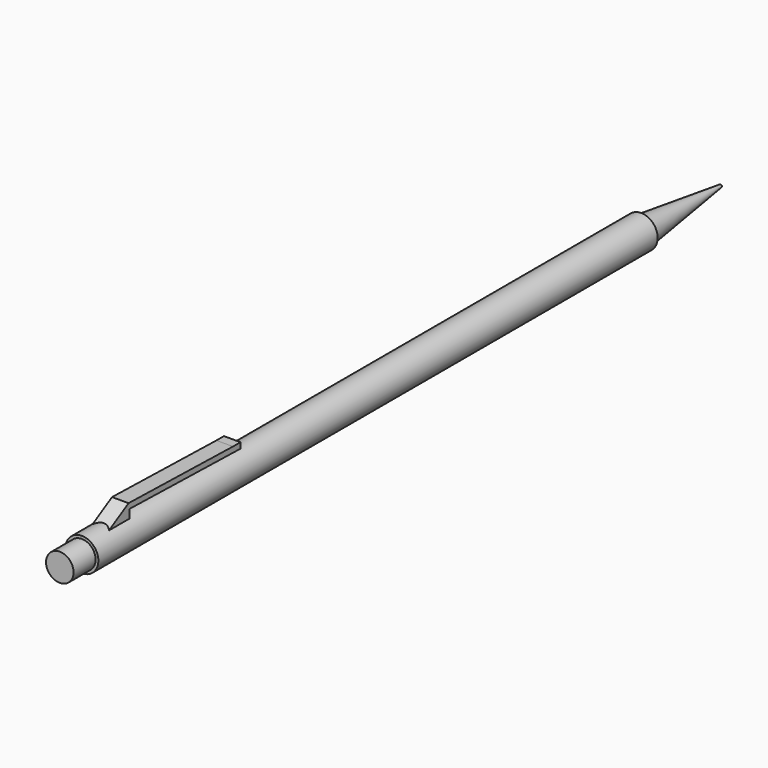
from build123d import *

# Parameters (mm, degrees)
F0_R      = 3
F1_DEPTH  = 127
F5_DEPTH  = 18
F2_R      = 2.5
F9_DEPTH  = 5
F12_DEPTH = 3
F14_DEPTH = 3


with BuildPart() as f1:
    # F0 (on Front) → F1 (new body)
    with BuildSketch(Plane.XZ):
        Circle(F0_R)
    extrude(amount=-F1_DEPTH)

    # F10: sweep along a path in F6
    with BuildLine(Plane.YZ) as f10_path:
        Line((5.9960522478, 2.5535523714), (8.9578591287, 4.2635523714))
        Line((8.9578591287, 4.2635523714), (33.9504102688, 3.6533167544))
    # F8 (on offset) → F10 (sweep)
    with BuildSketch(Plane.XY.offset(3)):
        Polygon((1.5, 6.9960522478), (0, 6.9960522478), (-1.5, 6.9960522478), (-1.5, 4.9960522478), (1.5, 4.9960522478), align=None)
    sweep(path=f10_path.line, transition=Transition.RIGHT)

    # F11 (on face) → F12 (join)
    with BuildSketch(Plane(origin=(-1.5, 0, 0), x_dir=(0, -1, 0), z_dir=(-1, 0, 0))):
        Polygon((-6.2998998251, 2.5980762114), (-8.9869465357, 4.1494433531), (-8.94906727, 2.5980762114), align=None)
    extrude(amount=-F12_DEPTH)

    # F13 (on face) → F14 (join)
    with BuildSketch(Plane.YZ.offset(1.5)):
        Polygon((34.1439385505, 4.577173042), (32.4368132398, 4.577173042), (34.1439385505, 3.5351926326), align=None)
    extrude(amount=-F14_DEPTH)


with BuildPart() as f4:
    # F3 (on Top) → F4 (revolve)
    with BuildSketch(Plane.XY):
        Polygon((-2.489665756, 127.0154416561), (0.010334244, 127.0154416561), (0.010334244, 145.0154416561), (-0.239665756, 145.0154416561), align=None)
    revolve(axis=Axis((0.010334244, 136.0154416561, 0), (0, 1, 0)))

    # F5 (cut): a face of the model
    f5_faces = [f4.faces().sort_by_distance(p)[0] for p in [
        (0.010334244, 145.0154416561, 0),
    ]]
    extrude(f5_faces, amount=-F5_DEPTH, mode=Mode.SUBTRACT)


with BuildPart() as f9:
    # F2 (on face) → F9 (new body)
    with BuildSketch(Plane.XZ):
        Circle(F2_R)
    extrude(amount=F9_DEPTH)


solid = Compound([f1.part, f4.part, f9.part])
